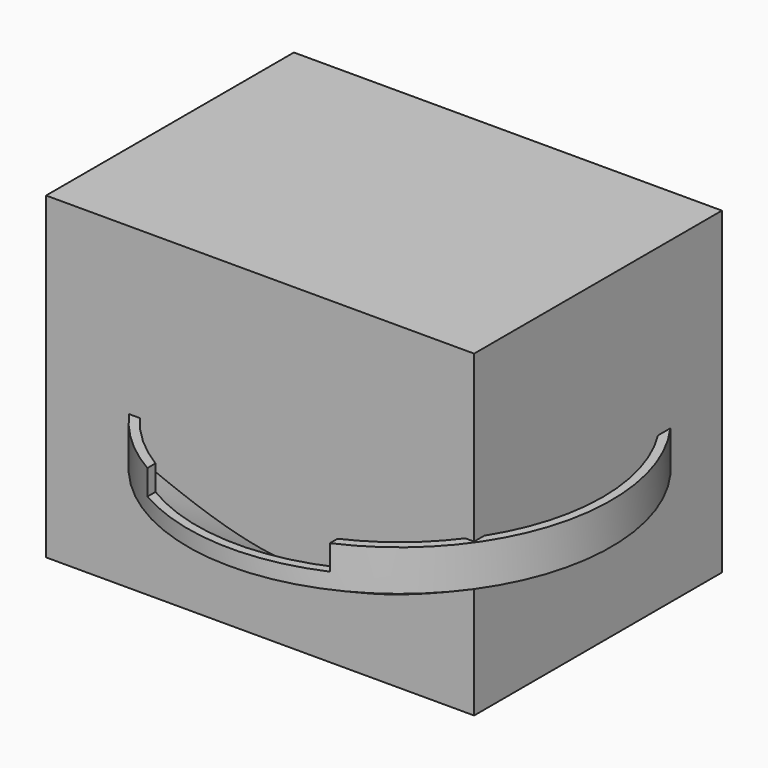
from build123d import *

# Parameters (mm, degrees)
F2_T     = -2.5
F3_W     = 54.863745
F3_H     = 16.608417
F4_DEPTH = 104.5
F5_W     = 77.0705
F5_H     = 24.25948
F6_DEPTH = 90.4
F8_W     = 123.194821
F8_H     = 89.151054
F9_DEPTH = 91.698781


with BuildPart() as f1:
    # F0 (on Front) → F1 (revolve)
    with BuildSketch(Plane.XZ):
        Polygon((0, 44.082265), (0, 0), (60.916152, 32.297436), (60.916152, 44.082265), align=None)
    revolve(axis=Axis((0, 0, 22.041133), (0, 0, 1)))

    # F2
    f2_openings = [f1.faces().sort_by_distance(p)[0] for p in [
        (0, 0, 44.082265),
    ]]
    offset(amount=F2_T, openings=f2_openings)

    # F3 (on Front) → F4 (cut, symmetric)
    with BuildSketch(Plane.XZ):
        with Locations((-2.892476, 45.159954)):
            Rectangle(F3_W, F3_H)
    extrude(amount=F4_DEPTH, both=True, mode=Mode.SUBTRACT)

    # F5 (on Right) → F6 (cut, symmetric)
    with BuildSketch(Plane.YZ):
        with Locations((-2.79917, -1.772808)):
            Rectangle(F5_W, F5_H)
    extrude(amount=F6_DEPTH, both=True, mode=Mode.SUBTRACT)

    # F8 (on face) → F9 (join)
    with BuildSketch(Plane.XY):
        with Locations((-12.236293, 9.672433)):
            Rectangle(F8_W, F8_H)
    extrude(amount=F9_DEPTH)


solid = f1.part
